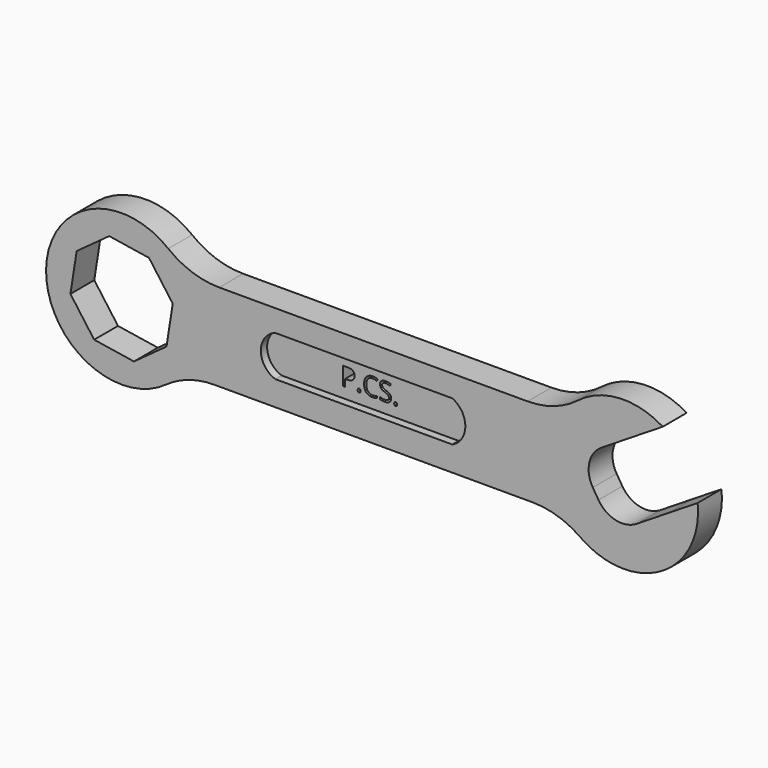
from build123d import *

# Parameters (mm, degrees)
F1_DEPTH = 4.318
F2_DEPTH = 2.032
F3_R     = 7.971733183
F4_R     = 23.8642013929


with BuildPart() as f1:
    # F0 (on Front) → F1 (new body, symmetric)
    with BuildSketch(Plane.XZ):
        with BuildLine():
            ThreePointArc((-46.2338426061, 12.0856054128), (-43.5213344718, 6.3113760083), (-42.5907655719, 0))
            ThreePointArc((-42.5907655719, 0), (-43.7248337559, -6.9507966217), (-47.0094135942, -13.1806617573))
            Line((-47.0094135942, -13.1806617573), (63.7992691794, -13.1806617573))
            ThreePointArc((63.7992691794, -13.1806617573), (59.317534505, -0.6754769417), (63.0081130652, 12.0856054128))
            Line((63.0081130652, 12.0856054128), (-46.2338426061, 12.0856054128))
        make_face()
        with BuildLine():
            Line((-19.9476424605, 5.7736183517), (31.3199795783, 5.7736183517))
            ThreePointArc((31.3199795783, 5.7736183517), (35.0758742447, -0.1146593131), (31.3199795783, -6.0029369779))
            Line((31.3199795783, -6.0029369779), (-19.9476424605, -6.0029369779))
            ThreePointArc((-19.9476424605, -6.0029369779), (-24.1493605801, -0.1146593131), (-19.9476424605, 5.7736183517))
        make_face(mode=Mode.SUBTRACT)
        with BuildLine():
            ThreePointArc((92.24769921, 18.3520112209), (76.3667804975, 21.1033285542), (63.0081130652, 12.0856054128))
            ThreePointArc((63.0081130652, 12.0856054128), (59.317534505, -0.6754769417), (63.7992691794, -13.1806617573))
            ThreePointArc((63.7992691794, -13.1806617573), (88.8887450524, -20.0453780605), (102.3588862586, 2.2068448709))
            Line((102.3588862586, 2.2068448709), (94.0176621341, -3.0169896507))
            Line((94.0176621341, -3.0169896507), (77.8724957841, -13.1281766993))
            Line((77.8724957841, -13.1281766993), (67.7613087356, 3.0169896507))
            Line((67.7613087356, 3.0169896507), (83.9064750855, 13.1281766993))
            Line((83.9064750855, 13.1281766993), (92.24769921, 18.3520112209))
        make_face()
        with BuildLine():
            ThreePointArc((-47.0094135942, -13.1806617573), (-43.7248337559, -6.9507966217), (-42.5907655719, 0))
            ThreePointArc((-42.5907655719, 0), (-43.5213344718, 6.3113760083), (-46.2338426061, 12.0856054128))
            ThreePointArc((-46.2338426061, 12.0856054128), (-86.316539374, 0.6709431338), (-47.0094135942, -13.1806617573))
        make_face()
        Polygon((-56.5163458136, 13.0068177036), (-49.645427804, 3.5810457411), (-51.4519823591, -7.9424542491), (-60.8777543217, -14.8133722587), (-72.4012543118, -13.0068177036), (-79.2721723214, -3.5810457411), (-77.4656177663, 7.9424542491), (-68.0398458038, 14.8133722587), align=None, mode=Mode.SUBTRACT)
    extrude(amount=F1_DEPTH, both=True)

    # F0 (on Front) → F2 (join, symmetric)
    with BuildSketch(Plane.XZ):
        with BuildLine():
            ThreePointArc((31.3199795783, -6.0029369779), (35.0758742447, -0.1146593131), (31.3199795783, 5.7736183517))
            Line((31.3199795783, 5.7736183517), (-19.9476424605, 5.7736183517))
            ThreePointArc((-19.9476424605, 5.7736183517), (-24.1493605801, -0.1146593131), (-19.9476424605, -6.0029369779))
            Line((-19.9476424605, -6.0029369779), (31.3199795783, -6.0029369779))
        make_face()
        with BuildLine():
            add(Edge.make_bspline(
                [(2.1968576309, -2.929569973), (2.0773811472, -2.8169533831), (2.0773811472, -2.5597073656)],
                knots=[0, 0, 0, 1, 1, 1], degree=2))
            add(Edge.make_bspline(
                [(2.0773811472, -2.5597073656), (2.0773811472, -2.3196110825), (2.1865677902, -2.1967046519)],
                knots=[0, 0, 0, 1, 1, 1], degree=2))
            add(Edge.make_bspline(
                [(2.1865677902, -2.1967046519), (2.2957544332, -2.0737982213), (2.499264616, -2.0737982213)],
                knots=[0, 0, 0, 1, 1, 1], degree=2))
            add(Edge.make_bspline(
                [(2.499264616, -2.0737982213), (2.7062047457, -2.0737982213), (2.8222512825, -2.1967046519)],
                knots=[0, 0, 0, 1, 1, 1], degree=2))
            add(Edge.make_bspline(
                [(2.8222512825, -2.1967046519), (2.9382978193, -2.3196110825), (2.9382978193, -2.5597073656)],
                knots=[0, 0, 0, 1, 1, 1], degree=2))
            add(Edge.make_bspline(
                [(2.9382978193, -2.5597073656), (2.9382978193, -2.7918004392), (2.820536309, -2.9169935011)],
                knots=[0, 0, 0, 1, 1, 1], degree=2))
            add(Edge.make_bspline(
                [(2.820536309, -2.9169935011), (2.7027747988, -3.042186563), (2.499264616, -3.042186563)],
                knots=[0, 0, 0, 1, 1, 1], degree=2))
            add(Edge.make_bspline(
                [(2.499264616, -3.042186563), (2.3163341146, -3.042186563), (2.1968576309, -2.929569973)],
                knots=[0, 0, 0, 1, 1, 1], degree=2))
        make_face(mode=Mode.SUBTRACT)
        with BuildLine():
            add(Edge.make_bspline(
                [(-0.7980576712, 2.2856642895), (1.1592986934, 2.2856642895), (1.1592986934, 0.7639111812)],
                knots=[0, 0, 0, 1, 1, 1], degree=2))
            add(Edge.make_bspline(
                [(1.1592986934, 0.7639111812), (1.1592986934, -0.0295498685), (0.6179387409, -0.4565782576)],
                knots=[0, 0, 0, 1, 1, 1], degree=2))
            add(Edge.make_bspline(
                [(0.6179387409, -0.4565782576), (0.0765787884, -0.8836066468), (-0.9306822847, -0.8836066468)],
                knots=[0, 0, 0, 1, 1, 1], degree=2))
            Line((-0.9306822847, -0.8836066468), (-1.5457860956, -0.8836066468))
            Line((-1.5457860956, -0.8836066468), (-1.5457860956, -2.9381448403))
            Line((-1.5457860956, -2.9381448403), (-2.152886697, -2.9381448403))
            Line((-2.152886697, -2.9381448403), (-2.152886697, 2.2856642895))
            Line((-2.152886697, 2.2856642895), (-0.7980576712, 2.2856642895))
        make_face(mode=Mode.SUBTRACT)
        with BuildLine():
            add(Edge.make_bspline(
                [(7.62246197, 1.5390791808), (7.0290811562, 1.8169048797), (6.4357003424, 1.8169048797)],
                knots=[0, 0, 0, 1, 1, 1], degree=2))
            add(Edge.make_bspline(
                [(6.4357003424, 1.8169048797), (5.5747836703, 1.8169048797), (5.0762980541, 1.2435320895)],
                knots=[0, 0, 0, 1, 1, 1], degree=2))
            add(Edge.make_bspline(
                [(5.0762980541, 1.2435320895), (4.5778124378, 0.6701592993), (4.5778124378, -0.3268119332)],
                knots=[0, 0, 0, 1, 1, 1], degree=2))
            add(Edge.make_bspline(
                [(4.5778124378, -0.3268119332), (4.5778124378, -1.3512227409), (5.0585766617, -1.9108757435)],
                knots=[0, 0, 0, 1, 1, 1], degree=2))
            add(Edge.make_bspline(
                [(5.0585766617, -1.9108757435), (5.5393408857, -2.4705287462), (6.4288404486, -2.4705287462)],
                knots=[0, 0, 0, 1, 1, 1], degree=2))
            add(Edge.make_bspline(
                [(6.4288404486, -2.4705287462), (6.9753453214, -2.4705287462), (7.6761978048, -2.2738784572)],
                knots=[0, 0, 0, 1, 1, 1], degree=2))
            Line((7.6761978048, -2.2738784572), (7.6761978048, -2.8055202268))
            add(Edge.make_bspline(
                [(7.6761978048, -2.8055202268), (7.1331228789, -3.0101737252), (6.3362318823, -3.0101737252)],
                knots=[0, 0, 0, 1, 1, 1], degree=2))
            add(Edge.make_bspline(
                [(6.3362318823, -3.0101737252), (5.182626408, -3.0101737252), (4.555517783, -2.3093212418)],
                knots=[0, 0, 0, 1, 1, 1], degree=2))
            add(Edge.make_bspline(
                [(4.555517783, -2.3093212418), (3.928409158, -1.6084687585), (3.928409158, -0.3188087238)],
                knots=[0, 0, 0, 1, 1, 1], degree=2))
            add(Edge.make_bspline(
                [(3.928409158, -0.3188087238), (3.928409158, 0.4883721135), (4.2302444852, 1.095472715)],
                knots=[0, 0, 0, 1, 1, 1], degree=2))
            add(Edge.make_bspline(
                [(4.2302444852, 1.095472715), (4.5320798125, 1.7025733164), (5.1020226558, 2.031276561)],
                knots=[0, 0, 0, 1, 1, 1], degree=2))
            add(Edge.make_bspline(
                [(5.1020226558, 2.031276561), (5.6719654992, 2.3599798057), (6.4437035518, 2.3599798057)],
                knots=[0, 0, 0, 1, 1, 1], degree=2))
            add(Edge.make_bspline(
                [(6.4437035518, 2.3599798057), (7.2646041767, 2.3599798057), (7.8797079876, 2.0604311097)],
                knots=[0, 0, 0, 1, 1, 1], degree=2))
            Line((7.8797079876, 2.0604311097), (7.62246197, 1.5390791808))
        make_face(mode=Mode.SUBTRACT)
        with BuildLine():
            add(Edge.make_bspline(
                [(12.777100504, -2.929569973), (12.6576240203, -2.8169533831), (12.6576240203, -2.5597073656)],
                knots=[0, 0, 0, 1, 1, 1], degree=2))
            add(Edge.make_bspline(
                [(12.6576240203, -2.5597073656), (12.6576240203, -2.3196110825), (12.7668106633, -2.1967046519)],
                knots=[0, 0, 0, 1, 1, 1], degree=2))
            add(Edge.make_bspline(
                [(12.7668106633, -2.1967046519), (12.8759973063, -2.0737982213), (13.0795074891, -2.0737982213)],
                knots=[0, 0, 0, 1, 1, 1], degree=2))
            add(Edge.make_bspline(
                [(13.0795074891, -2.0737982213), (13.2864476188, -2.0737982213), (13.4024941556, -2.1967046519)],
                knots=[0, 0, 0, 1, 1, 1], degree=2))
            add(Edge.make_bspline(
                [(13.4024941556, -2.1967046519), (13.5185406924, -2.3196110825), (13.5185406924, -2.5597073656)],
                knots=[0, 0, 0, 1, 1, 1], degree=2))
            add(Edge.make_bspline(
                [(13.5185406924, -2.5597073656), (13.5185406924, -2.7918004392), (13.4007791821, -2.9169935011)],
                knots=[0, 0, 0, 1, 1, 1], degree=2))
            add(Edge.make_bspline(
                [(13.4007791821, -2.9169935011), (13.2830176719, -3.042186563), (13.0795074891, -3.042186563)],
                knots=[0, 0, 0, 1, 1, 1], degree=2))
            add(Edge.make_bspline(
                [(13.0795074891, -3.042186563), (12.8965769877, -3.042186563), (12.777100504, -2.929569973)],
                knots=[0, 0, 0, 1, 1, 1], degree=2))
        make_face(mode=Mode.SUBTRACT)
        with BuildLine():
            add(Edge.make_bspline(
                [(11.4548559738, -0.6766665171), (11.7635511948, -1.0128013134), (11.7635511948, -1.5478730299)],
                knots=[0, 0, 0, 1, 1, 1], degree=2))
            add(Edge.make_bspline(
                [(11.7635511948, -1.5478730299), (11.7635511948, -2.2372923569), (11.2633506052, -2.6237330411)],
                knots=[0, 0, 0, 1, 1, 1], degree=2))
            add(Edge.make_bspline(
                [(11.2633506052, -2.6237330411), (10.7631500155, -3.0101737252), (9.9056632903, -3.0101737252)],
                knots=[0, 0, 0, 1, 1, 1], degree=2))
            add(Edge.make_bspline(
                [(9.9056632903, -3.0101737252), (8.9772909958, -3.0101737252), (8.4765187483, -2.7700774422)],
                knots=[0, 0, 0, 1, 1, 1], degree=2))
            Line((8.4765187483, -2.7700774422), (8.4765187483, -2.1846998378))
            add(Edge.make_bspline(
                [(8.4765187483, -2.1846998378), (8.798933757, -2.3196110825), (9.1773712317, -2.3984998613)],
                knots=[0, 0, 0, 1, 1, 1], degree=2))
            add(Edge.make_bspline(
                [(9.1773712317, -2.3984998613), (9.5558087064, -2.47738864), (9.9273862873, -2.47738864)],
                knots=[0, 0, 0, 1, 1, 1], degree=2))
            add(Edge.make_bspline(
                [(9.9273862873, -2.47738864), (10.5344868887, -2.47738864), (10.8420387942, -2.2470105398)],
                knots=[0, 0, 0, 1, 1, 1], degree=2))
            add(Edge.make_bspline(
                [(10.8420387942, -2.2470105398), (11.1495906996, -2.0166324396), (11.1495906996, -1.6050388116)],
                knots=[0, 0, 0, 1, 1, 1], degree=2))
            add(Edge.make_bspline(
                [(11.1495906996, -1.6050388116), (11.1495906996, -1.3340730064), (11.0404040566, -1.1608606879)],
                knots=[0, 0, 0, 1, 1, 1], degree=2))
            add(Edge.make_bspline(
                [(11.0404040566, -1.1608606879), (10.9312174136, -0.9876483694), (10.6756863695, -0.8407323105)],
                knots=[0, 0, 0, 1, 1, 1], degree=2))
            add(Edge.make_bspline(
                [(10.6756863695, -0.8407323105), (10.4201553254, -0.6938162516), (9.8988033965, -0.508599119)],
                knots=[0, 0, 0, 1, 1, 1], degree=2))
            add(Edge.make_bspline(
                [(9.8988033965, -0.508599119), (9.1705113379, -0.2479231545), (8.8578145121, 0.109362981)],
                knots=[0, 0, 0, 1, 1, 1], degree=2))
            add(Edge.make_bspline(
                [(8.8578145121, 0.109362981), (8.5451176863, 0.4666491165), (8.5451176863, 1.0417368802)],
                knots=[0, 0, 0, 1, 1, 1], degree=2))
            add(Edge.make_bspline(
                [(8.5451176863, 1.0417368802), (8.5451176863, 1.6454075347), (8.998442335, 2.0026936702)],
                knots=[0, 0, 0, 1, 1, 1], degree=2))
            add(Edge.make_bspline(
                [(8.998442335, 2.0026936702), (9.4517669838, 2.3599798057), (10.1994954081, 2.3599798057)],
                knots=[0, 0, 0, 1, 1, 1], degree=2))
            add(Edge.make_bspline(
                [(10.1994954081, 2.3599798057), (10.9780933546, 2.3599798057), (11.632069897, 2.0741508973)],
                knots=[0, 0, 0, 1, 1, 1], degree=2))
            Line((11.632069897, 2.0741508973), (11.4422795018, 1.5459390746))
            add(Edge.make_bspline(
                [(11.4422795018, 1.5459390746), (10.7951628532, 1.8169048797), (10.1846323049, 1.8169048797)],
                knots=[0, 0, 0, 1, 1, 1], degree=2))
            add(Edge.make_bspline(
                [(10.1846323049, 1.8169048797), (9.7021531075, 1.8169048797), (9.4306156445, 1.6099647501)],
                knots=[0, 0, 0, 1, 1, 1], degree=2))
            add(Edge.make_bspline(
                [(9.4306156445, 1.6099647501), (9.1590781816, 1.4030246204), (9.1590781816, 1.0348769864)],
                knots=[0, 0, 0, 1, 1, 1], degree=2))
            add(Edge.make_bspline(
                [(9.1590781816, 1.0348769864), (9.1590781816, 0.7639111812), (9.2591182995, 0.5901272049)],
                knots=[0, 0, 0, 1, 1, 1], degree=2))
            add(Edge.make_bspline(
                [(9.2591182995, 0.5901272049), (9.3591584174, 0.4163432286), (9.5969680692, 0.271713801)],
                knots=[0, 0, 0, 1, 1, 1], degree=2))
            add(Edge.make_bspline(
                [(9.5969680692, 0.271713801), (9.834777721, 0.1270843733), (10.3241168122, -0.0478429186)],
                knots=[0, 0, 0, 1, 1, 1], degree=2))
            add(Edge.make_bspline(
                [(10.3241168122, -0.0478429186), (11.1461607527, -0.3405317208), (11.4548559738, -0.6766665171)],
                knots=[0, 0, 0, 1, 1, 1], degree=2))
        make_face(mode=Mode.SUBTRACT)
    extrude(amount=F2_DEPTH, both=True)

    # F3
    f3_edges = [f1.edges().sort_by_distance(p)[0] for p in [
        (67.761309, 0, 3.01699),
        (77.872496, 0, -13.128177),
    ]]
    fillet(f3_edges, radius=F3_R)

    # F4
    f4_edges = [f1.edges().sort_by_distance(p)[0] for p in [
        (63.008113, 0, 12.085605),
        (-46.233843, 0, 12.085605),
        (63.799269, 0, -13.180662),
        (-47.009414, 0, -13.180662),
    ]]
    fillet(f4_edges, radius=F4_R)


solid = f1.part
